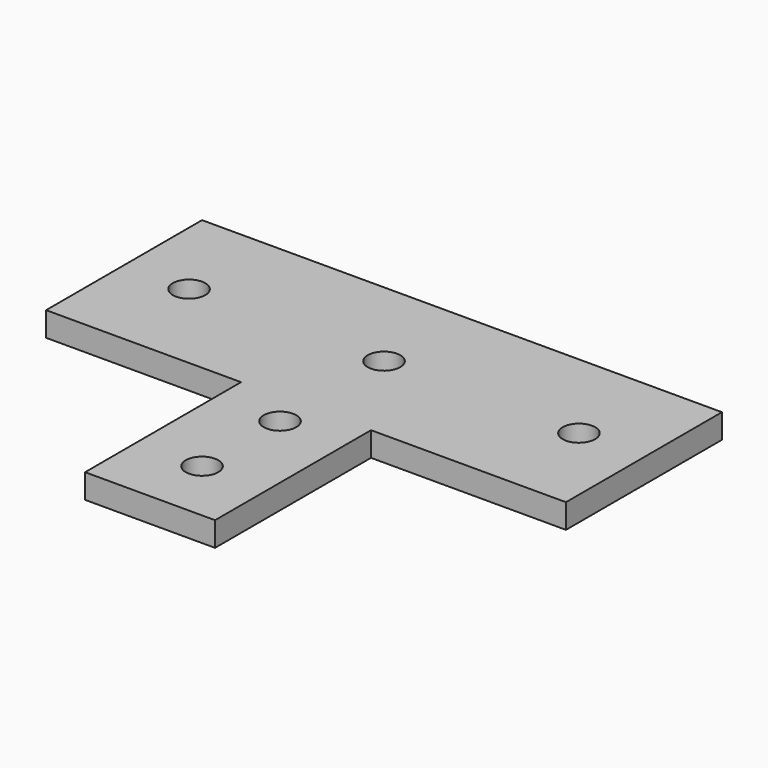
from build123d import *

# Parameters (mm, degrees)
F0_W     = 101.6
F0_H     = 76.2
F1_DEPTH = 4.7625
F2_W     = 38.1
F2_H     = 38.1
F3_DEPTH = 25.4
F4_R     = 3.175
F5_DEPTH = 25.4


with BuildPart() as f1:
    # F0 (on Top) → F1 (new body)
    with BuildSketch(Plane.XY):
        with Locations((50.8, 38.1)):
            Rectangle(F0_W, F0_H)
    extrude(amount=F1_DEPTH)

    # F2 (on face) → F3 (cut)
    with BuildSketch(Plane.XY.offset(4.7625)):
        with Locations((82.55, 19.05)):
            Rectangle(F2_W, F2_H)
        with Locations((19.05, 19.05)):
            Rectangle(F2_W, F2_H)
    extrude(amount=-F3_DEPTH, mode=Mode.SUBTRACT)

    # F4 (on face) → F5 (cut)
    with BuildSketch(Plane.XY.offset(4.7625)):
        with Locations((50.8, 12.7)):
            Circle(F4_R)
        with Locations((50.8, 31.75)):
            Circle(F4_R)
        with Locations((12.7, 57.15)):
            Circle(F4_R)
        with Locations((50.8, 57.15)):
            Circle(F4_R)
        with Locations((88.9, 57.15)):
            Circle(F4_R)
    extrude(amount=-F5_DEPTH, mode=Mode.SUBTRACT)


solid = f1.part
